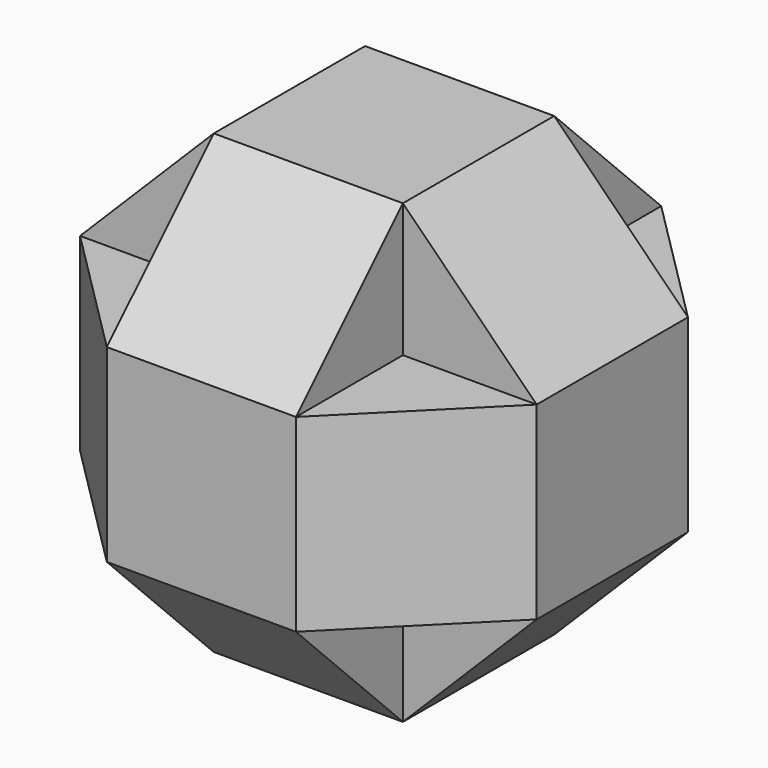
from build123d import *

# Parameters (mm, degrees)
F2_DEPTH      = 25
F2_DEPTH_BACK = 25
F4_DEPTH      = 25
F4_DEPTH_BACK = 25
F6_DEPTH      = 25
F6_DEPTH_BACK = 25


with BuildPart() as f2:
    # F1 (on Front) → F2 (new body, two sides)
    with BuildSketch(Plane.XZ) as f2_sk:
        Polygon((25, 60.3553390593), (-25, 60.3553390593), (-60.3553390593, 25), (-60.3553390593, -25), (-25, -60.3553390593), (25, -60.3553390593), (60.3553390593, -25), (60.3553390593, 25), align=None)
    extrude(amount=F2_DEPTH)
    extrude(f2_sk.sketch, amount=-F2_DEPTH_BACK)

    # F3 (on Top) → F4 (join, two sides)
    with BuildSketch(Plane.XY) as f4_sk:
        Polygon((25, -60.3553390593), (60.3553390593, -25), (60.3553390593, 25), (25, 60.3553390593), (-25, 60.3553390593), (-60.3553390593, 25), (-60.3553390593, -25), (-25, -60.3553390593), align=None)
    extrude(amount=F4_DEPTH)
    extrude(f4_sk.sketch, amount=-F4_DEPTH_BACK)

    # F5 (on Right) → F6 (join, two sides)
    with BuildSketch(Plane.YZ) as f6_sk:
        Polygon((60.3553390593, 25), (25, 60.3553390593), (-25, 60.3553390593), (-60.3553390593, 25), (-60.3553390593, -25), (-25, -60.3553390593), (25, -60.3553390593), (60.3553390593, -25), align=None)
    extrude(amount=F6_DEPTH)
    extrude(f6_sk.sketch, amount=-F6_DEPTH_BACK)


solid = f2.part
